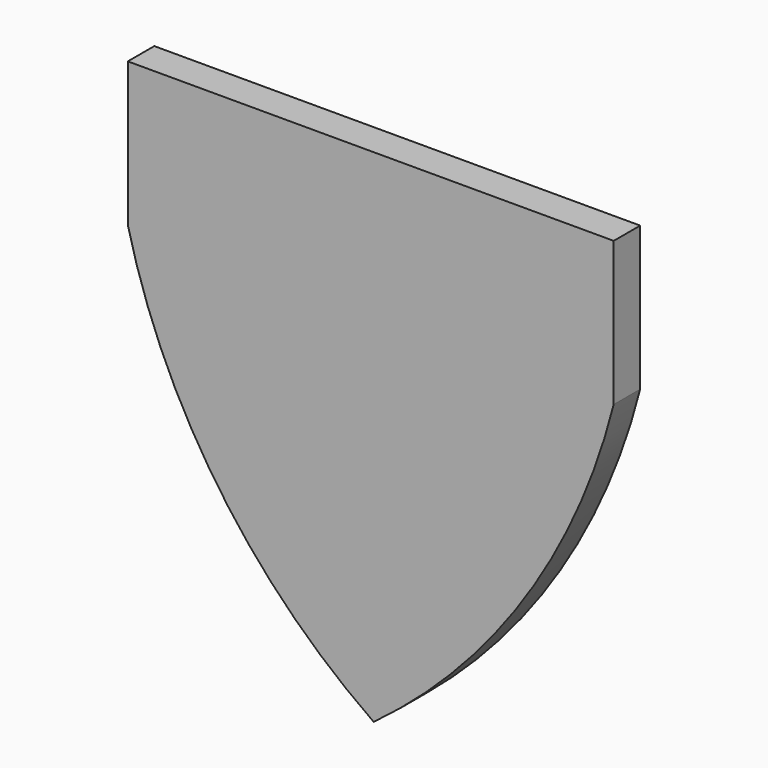
from build123d import *

# Parameters (mm, degrees)
F1_DEPTH = 5.08
F2_W     = 8.722898
F2_H     = 5.715
F3_DEPTH = 7.62
F4_R     = 1.31726
F5_DEPTH = 12.7


with BuildPart() as f1:
    # F0 (on Front) → F1 (new body)
    with BuildSketch(Plane.XZ):
        with BuildLine():
            ThreePointArc((-37.749078, 0), (-23.884625, -30.892331), (0, -54.894079))
            ThreePointArc((0, -54.894079), (23.167985, -30.63179), (36.846712, 0))
            Line((36.846712, 0), (36.846712, 22.108026))
            Line((36.846712, 22.108026), (-37.749078, 22.108026))
            Line((-37.749078, 22.108026), (-37.749078, 21.205658))
            Line((-37.749078, 21.205658), (-37.749078, 0))
        make_face()
    extrude(amount=F1_DEPTH)

    # F2 (on face) → F3 (join)
    with BuildSketch(Plane(origin=(0, 0, 0), x_dir=(-1, 0, 0), z_dir=(0, 1, 0))):
        Rectangle(F2_W, F2_H)
    extrude(amount=F3_DEPTH)

    # F4 (on face) → F5 (join)
    with BuildSketch(Plane(origin=(0, 0, -2.8575), x_dir=(1, 0, 0), z_dir=(0, 0, -1))):
        with Locations((0, -6.087864)):
            Circle(F4_R)
    extrude(amount=F5_DEPTH)


solid = f1.part
